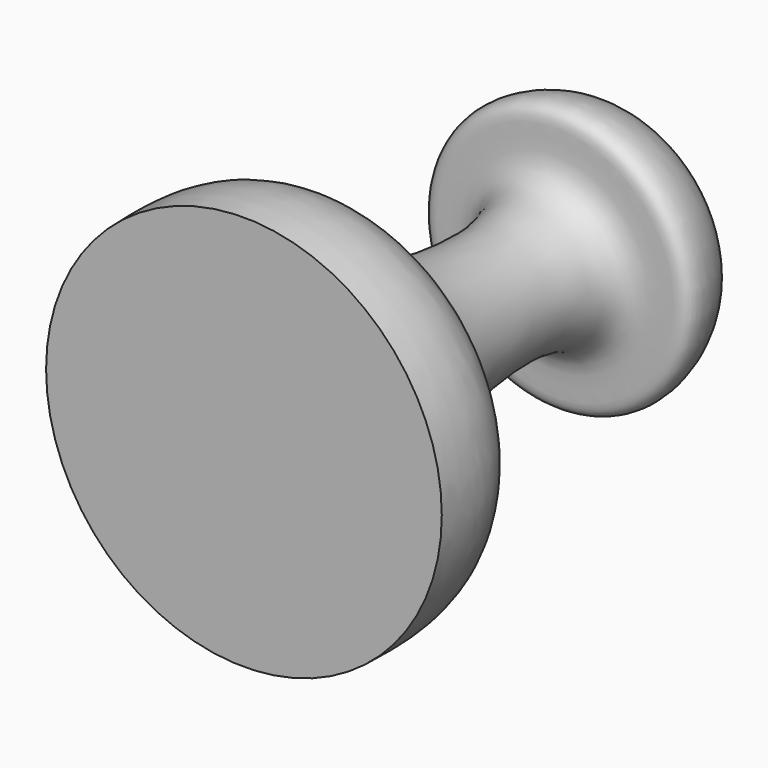
from build123d import *


with BuildPart() as f1:
    # F0 (on Top) → F1 (revolve)
    with BuildSketch(Plane.XY):
        with BuildLine():
            add(Edge.make_bspline(
                [(0, 28.5986167007), (2.0284064437, 28.734880156), (5.5988619407, 28.9747347506), (7.9046994684, 26.4894445713), (8.4780756447, 22.6413443019), (2.0956879394, 25.133434921), (4.1657750946, 7.8226751518), (8.9972509736, 7.6884059378), (12.0388695154, 4.8552816545), (11.9724920495, 1.697432436), (11.9368123025, 0)],
                knots=[0, 0, 0, 0, 0.1354548152, 0.2384312034, 0.3297076929, 0.4351376691, 0.6475354405, 0.7652903007, 0.8738369601, 1, 1, 1, 1], degree=3))
            Line((0, 28.5986167007), (0, 0))
            Line((0, 0), (11.9368123025, 0))
        make_face()
    revolve(axis=Axis((0, 14.2993083504, 0), (0, 1, 0)))


solid = f1.part
